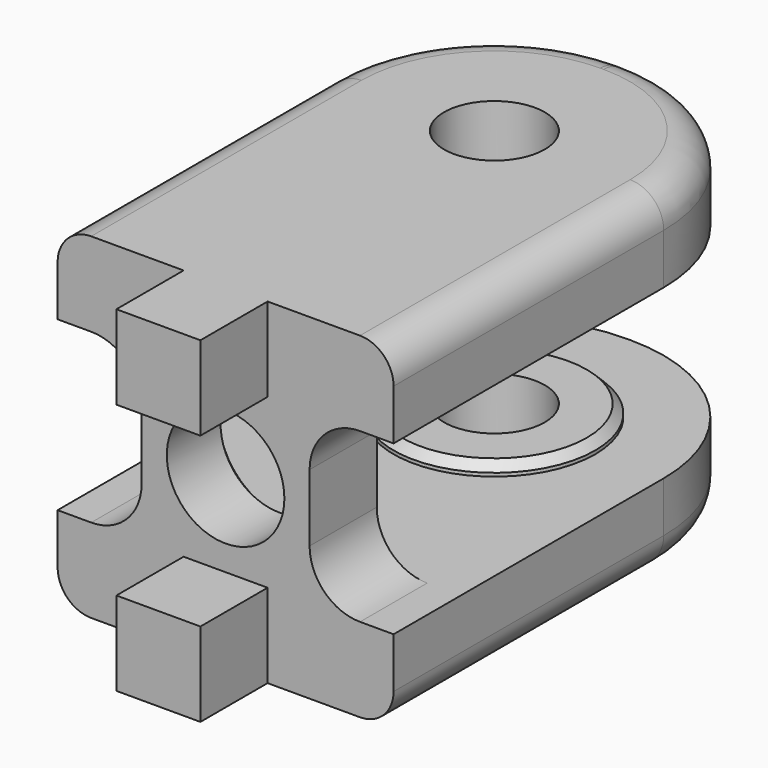
from build123d import *

# Parameters (mm, degrees)
BOX007_W              = 11
BOX007_H              = 7
BOX007_DEPTH          = 10
FILLET_R              = 3
ARRAY_COUNT           = 2
ARRAY_ANGLE           = 180
ARRAY_PLACEMENT_ANGLE = 90
CYLINDER004_R         = 3
CYLINDER004_DEPTH     = 30
CYLINDER_R            = 3.5
CYLINDER_DEPTH        = 15
CYLINDER006_R         = 6
CYLINDER006_DEPTH     = 4
CYLINDER005_R         = 6
CYLINDER005_DEPTH     = 4
BOX001_W              = 5
BOX001_H              = 10
BOX001_DEPTH          = 5
BOX002_W              = 20
BOX002_H              = 25
BOX002_DEPTH          = 5
BOX_W                 = 20
BOX_H                 = 5
BOX_DEPTH             = 20
FILLET001_R           = 9.9
FILLET002_R           = 2
CHAMFER_SIZE          = 1
CHAMFER001_SIZE       = 0.5


with BuildPart() as array:
    # Box007 → Box007 (new body)
    with BuildSketch(Plane(origin=(10, 5, -5), x_dir=(1, 0, 0), z_dir=(0, 0, 1))):
        with Locations((5.5, 3.5)):
            Rectangle(BOX007_W, BOX007_H)
    extrude(amount=BOX007_DEPTH)


with BuildPart() as array_1:
    # BaseFeature placement: moved
    add(array.part.moved(Location((-10, -5, 5))))

    # Fillet
    fillet_edges = [array_1.edges().sort_by_distance(p)[0] for p in [
        (5.5, 0, 10),
        (5.5, 0, 0),
    ]]
    fillet(fillet_edges, radius=FILLET_R)


with BuildPart() as array_2:
    # Body placement: moved
    add(array_1.part.moved(Location((-5, 5, 0))))

    # Array: Array ×2 about axis
    array_axis = Axis((0, 0, 0), (0, 0, 1))


with BuildPart() as array_3:
    add(array_2.part)
    for i in range(1, ARRAY_COUNT):
        add(array_2.part.rotate(array_axis, i * ARRAY_ANGLE / (ARRAY_COUNT - 1)))


with BuildPart() as array_4:
    # Array placement: moved
    add(array_3.part.moved(Location((0, -3, -5))).rotate(Axis((0, -3, -5), (0, 0, 1)), ARRAY_PLACEMENT_ANGLE))


with BuildPart() as cilindro004:
    # Cylinder004 → Cylinder004 (new body)
    with BuildSketch(Plane(origin=(0, 15, -15), x_dir=(1, 0, 0), z_dir=(0, 0, 1))):
        Circle(CYLINDER004_R)
    extrude(amount=CYLINDER004_DEPTH)


with BuildPart() as cilindro:
    # Cylinder → Cylinder (new body)
    with BuildSketch(Plane.XZ.offset(-5)):
        Circle(CYLINDER_R)
    extrude(amount=CYLINDER_DEPTH)


with BuildPart() as obj1:
    # Cylinder006 → Cylinder006 (new body)
    with BuildSketch(Plane.XY.offset(4.3)):
        Circle(CYLINDER006_R)
    extrude(amount=CYLINDER006_DEPTH)


with BuildPart() as fusion003:
    # Cylinder005 → Cylinder005 (new body)
    with BuildSketch(Plane.XY.offset(-8.3)):
        Circle(CYLINDER005_R)
    extrude(amount=CYLINDER005_DEPTH)

    # Fusion003: union obj1
    add(obj1.part)


with BuildPart() as fusion003_1:
    # Fusion003 placement: moved
    add(fusion003.part.moved(Location((0, 15, 0))))


with BuildPart() as pin0:
    # Box001 → Box001 (new body)
    with BuildSketch(Plane(origin=(-2.5, -10, 5), x_dir=(1, 0, 0), z_dir=(0, 0, 1))):
        with Locations((2.5, 5)):
            Rectangle(BOX001_W, BOX001_H)
    extrude(amount=BOX001_DEPTH)


with BuildPart() as pin001:
    # Clone base: copy of pin0
    add(pin0.part)


with BuildPart() as pin001_1:
    # Clone placement: moved
    add(pin001.part.moved(Location((0, 0, -15))))


with BuildPart() as pared1:
    # Box002 → Box002 (new body)
    with BuildSketch(Plane(origin=(-10, 0, 5), x_dir=(1, 0, 0), z_dir=(0, 0, 1))):
        with Locations((10, 12.5)):
            Rectangle(BOX002_W, BOX002_H)
    extrude(amount=BOX002_DEPTH)


with BuildPart() as pared002:
    # Clone001 base: copy of pared1
    add(pared1.part)


with BuildPart() as pared002_1:
    # Clone001 placement: moved
    add(pared002.part.moved(Location((0, 0, -15))))


with BuildPart() as chamfer001001:
    # Box → Box (new body)
    with BuildSketch(Plane(origin=(-10, -5, -10), x_dir=(1, 0, 0), z_dir=(0, 0, 1))):
        with Locations((10, 2.5)):
            Rectangle(BOX_W, BOX_H)
    extrude(amount=BOX_DEPTH)

    # Fusion: union pin0, pin001, pared1, pared002
    add(pin0.part)
    add(pin001_1.part)
    add(pared1.part)
    add(pared002_1.part)

    # Fusion004: union Fusion003
    add(fusion003_1.part)

    # Cut001: cut Cilindro
    add(cilindro.part, mode=Mode.SUBTRACT)

    # Cut002: cut Cilindro004
    add(cilindro004.part, mode=Mode.SUBTRACT)

    # Cut003: cut Array
    add(array_4.part, mode=Mode.SUBTRACT)

    # Fillet001
    fillet001_edges = [chamfer001001.edges().sort_by_distance(p)[0] for p in [
        (10, 25, -7.5),
        (10, 25, 7.5),
        (-10, 25, 7.5),
        (-10, 25, -7.5),
    ]]
    fillet(fillet001_edges, radius=FILLET001_R)

    # Fillet002
    fillet002_edges = [chamfer001001.edges().sort_by_distance(p)[0] for p in [
        (-10, 5.05, -10),
        (-10, 5.05, 10),
    ]]
    fillet(fillet002_edges, radius=FILLET002_R)

    # Chamfer
    chamfer_edges = [chamfer001001.edges().sort_by_distance(p)[0] for p in [
        (-3.5, 0, 0),
    ]]
    chamfer(chamfer_edges, length=CHAMFER_SIZE)

    # Chamfer001
    chamfer001_edges = [chamfer001001.edges().sort_by_distance(p)[0] for p in [
        (-6, 15, -4.3),
        (-6, 15, 4.3),
    ]]
    chamfer(chamfer001_edges, length=CHAMFER001_SIZE)


solid = chamfer001001.part
